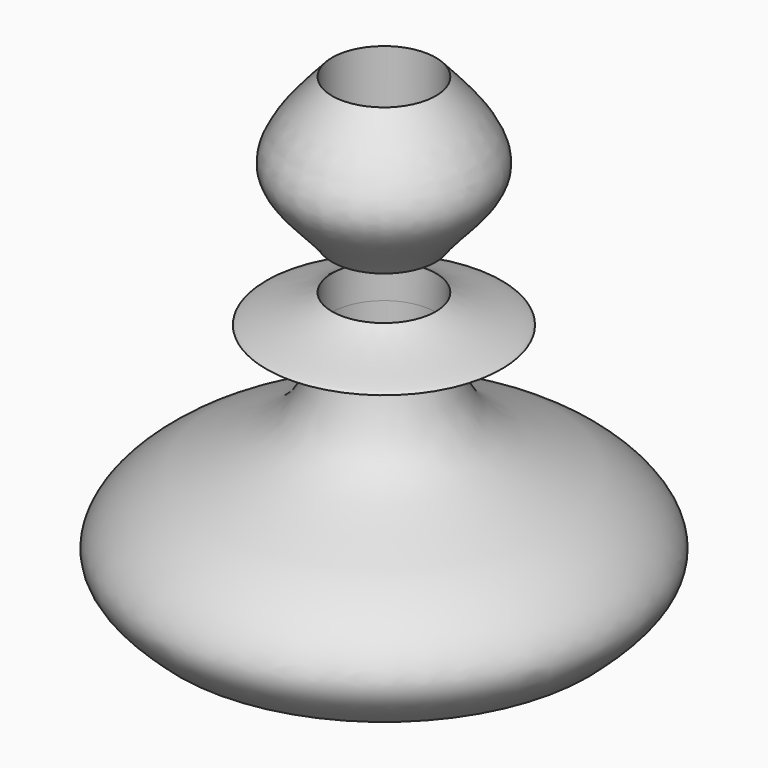
from build123d import *


with BuildPart() as f1:
    # F0 (on Front) → F1 (revolve)
    with BuildSketch(Plane.XZ):
        with BuildLine():
            Line((0, 21.360527724), (0, 27.5298226625))
            add(Edge.make_bspline(
                [(0, 27.5298226625), (-0.5689546257, 25.2155282415), (-1.7810954, 20.2849933538), (-10.4524495309, 18.2109930533), (-16.2734333671, 12.4853980758), (-13.4330094974, 9.8928680945), (-12.1435010806, 8.7158996612)],
                knots=[0, 0, 0, 0, 0.2544296933, 0.5420548346, 0.792099992, 1, 1, 1, 1], degree=3))
            Line((-12.1435010806, 8.7158996612), (0, 8.7751643732))
            Line((0, 8.7751643732), (0, 21.360527724))
        make_face()
    revolve(axis=Axis((4.1131218895, 0, 27.0362780429), (0, 0, -1)))


with BuildPart() as f1b:
    # F0 (on Front) → F1, piece 2 (revolve)
    with BuildSketch(Plane.XZ):
        with BuildLine():
            Line((0, 27.5298226625), (0, 30.2443113178))
            add(Edge.make_bspline(
                [(0, 30.2443113178), (-1.3882070044, 29.0413526653), (-8.3517811986, 27.7525778934), (-2.7471802647, 27.6030943107), (0, 27.5298226625)],
                knots=[0.6035165989, 0.6035165989, 0.6035165989, 0.6035165989, 0.8056576396, 1, 1, 1, 1], degree=3))
        make_face()
    revolve(axis=Axis((4.1131218895, 0, 27.0362780429), (0, 0, -1)))


with BuildPart() as f1c:
    # F0 (on Front) → F1, piece 3 (revolve)
    with BuildSketch(Plane.XZ):
        with BuildLine():
            Line((0, 33.6991176009), (0, 45.2973917127))
            add(Edge.make_bspline(
                [(0, 45.2973917127), (-2.0256198802, 43.0825093515), (-5.9303409984, 38.8129531456), (-1.1561968652, 35.3927761254), (0, 33.6991176009)],
                knots=[0, 0, 0, 0, 0.2312597199, 0.4457917899, 0.4457917899, 0.4457917899, 0.4457917899], degree=3))
        make_face()
    revolve(axis=Axis((4.1131218895, 0, 27.0362780429), (0, 0, -1)))


solid = Compound([f1.part, f1b.part, f1c.part])
